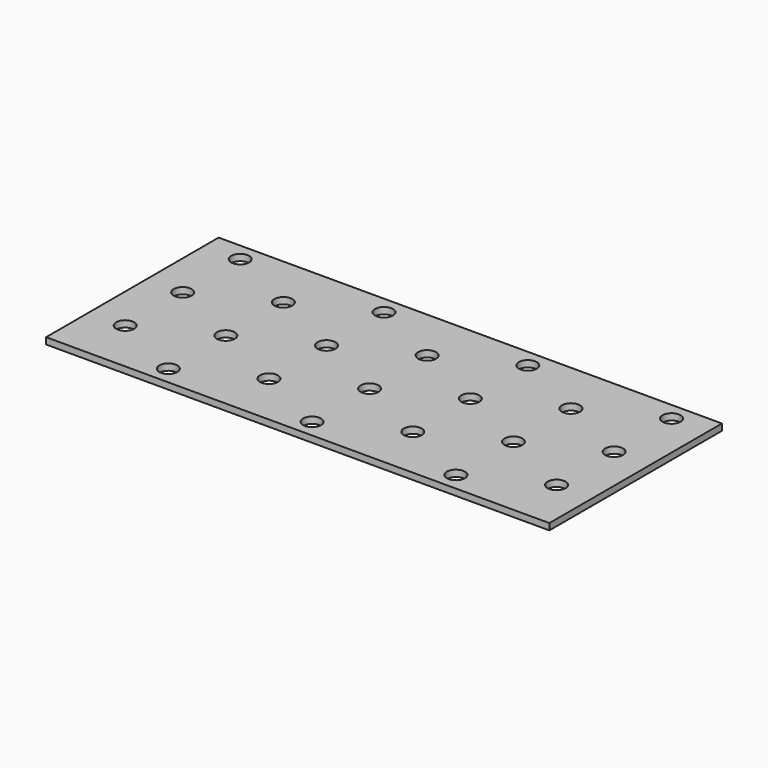
from build123d import *

# Parameters (mm, degrees)
SKETCH_W  = 140
SKETCH_H  = 60
SKETCH_R  = 2.5
PAD_DEPTH = 1.8


with BuildPart() as part:
    # Sketch → Pad (new body)
    with BuildSketch(Plane.XY):
        with Locations((68.5, 39.5)):
            Rectangle(SKETCH_W, SKETCH_H)
        with Locations((28.5, 14.5)):
            Circle(SKETCH_R, mode=Mode.SUBTRACT)
        with Locations((108.5, 14.5)):
            Circle(SKETCH_R, mode=Mode.SUBTRACT)
        with Locations((8.5, 24.5)):
            Circle(SKETCH_R, mode=Mode.SUBTRACT)
        with Locations((48.5, 24.5)):
            Circle(SKETCH_R, mode=Mode.SUBTRACT)
        with Locations((88.5, 24.5)):
            Circle(SKETCH_R, mode=Mode.SUBTRACT)
        with Locations((8.5, 44.5)):
            Circle(SKETCH_R, mode=Mode.SUBTRACT)
        with Locations((48.5, 44.5)):
            Circle(SKETCH_R, mode=Mode.SUBTRACT)
        with Locations((88.5, 44.5)):
            Circle(SKETCH_R, mode=Mode.SUBTRACT)
        with Locations((28.5, 54.5)):
            Circle(SKETCH_R, mode=Mode.SUBTRACT)
        with Locations((68.5, 54.5)):
            Circle(SKETCH_R, mode=Mode.SUBTRACT)
        with Locations((108.5, 54.5)):
            Circle(SKETCH_R, mode=Mode.SUBTRACT)
        with Locations((88.5, 64.5)):
            Circle(SKETCH_R, mode=Mode.SUBTRACT)
        with Locations((48.5, 64.5)):
            Circle(SKETCH_R, mode=Mode.SUBTRACT)
        with Locations((8.5, 64.5)):
            Circle(SKETCH_R, mode=Mode.SUBTRACT)
        with Locations((28.5, 34.5)):
            Circle(SKETCH_R, mode=Mode.SUBTRACT)
        with Locations((68.5, 34.5)):
            Circle(SKETCH_R, mode=Mode.SUBTRACT)
        with Locations((108.5, 34.5)):
            Circle(SKETCH_R, mode=Mode.SUBTRACT)
        with Locations((68.5, 14.5)):
            Circle(SKETCH_R, mode=Mode.SUBTRACT)
        with Locations((128.5, 24.5)):
            Circle(SKETCH_R, mode=Mode.SUBTRACT)
        with Locations((128.5, 44.5)):
            Circle(SKETCH_R, mode=Mode.SUBTRACT)
        with Locations((128.5, 64.5)):
            Circle(SKETCH_R, mode=Mode.SUBTRACT)
    extrude(amount=PAD_DEPTH)


solid = part.part
